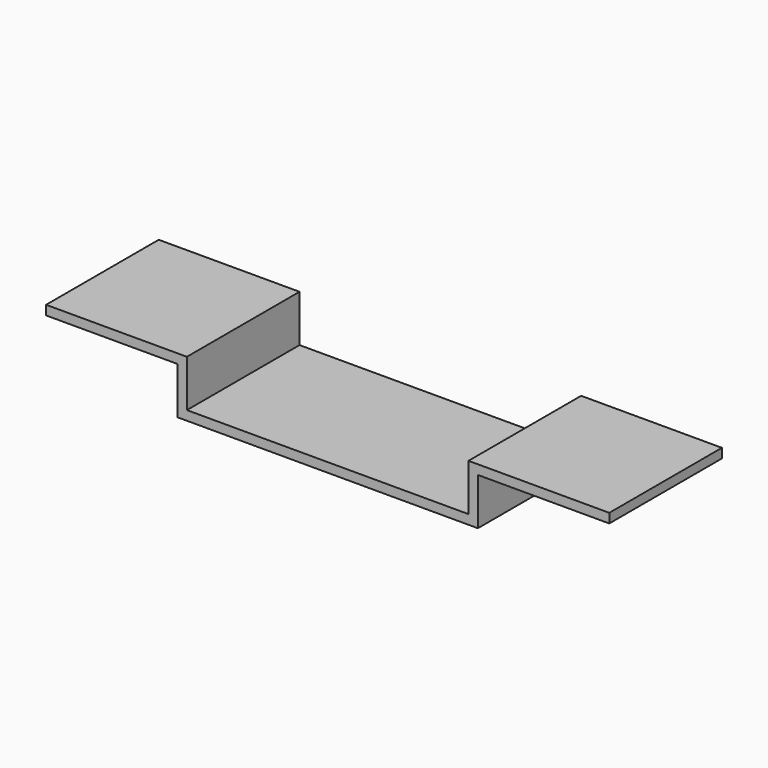
from build123d import *

# Parameters (mm, degrees)
F1_DEPTH = 600


with BuildPart() as f1:
    # F0 (on Front) → F1 (new body)
    with BuildSketch(Plane.XZ):
        Polygon((-1814.319788, 0), (-1774.319788, 40), (-2374.319788, 40), (-2374.319788, 0), align=None)
        Polygon((-1774.319788, -160), (-1774.319788, 40), (-1814.319788, 0), (-1814.319788, -200), align=None)
        Polygon((-574.319788, -160), (-1774.319788, -160), (-1814.319788, -200), (-534.319788, -200), align=None)
        Polygon((-574.319788, 40), (-574.319788, -160), (-534.319788, -200), (-534.319788, 0), align=None)
        Polygon((25.680212, 40), (-574.319788, 40), (-534.319788, 0), (25.680212, 0), align=None)
    extrude(amount=F1_DEPTH)


solid = f1.part
